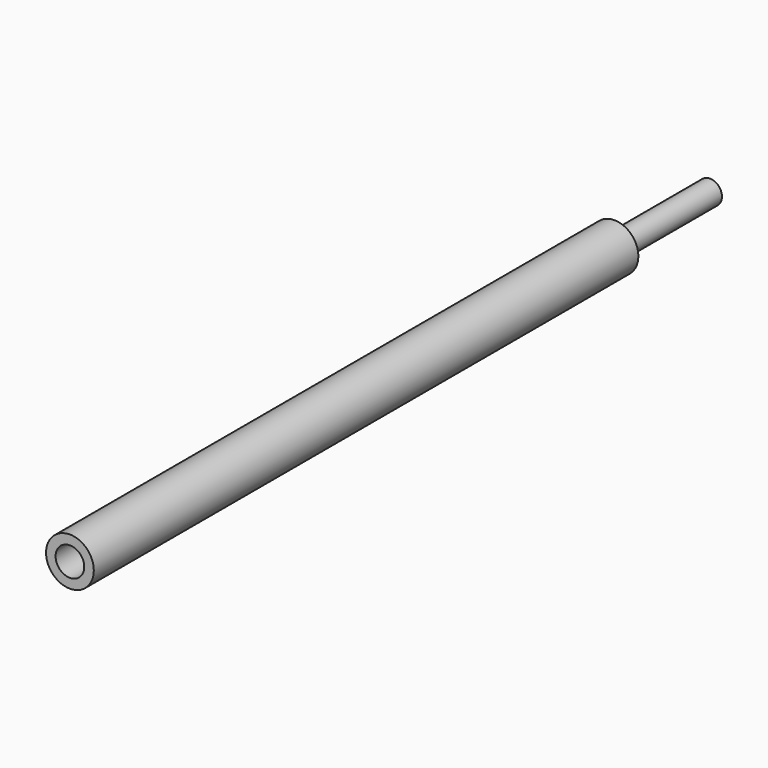
from build123d import *

# Parameters (mm, degrees)
F0_R     = 10
F1_DEPTH = 285
F2_R     = 6
F3_DEPTH = 25
F4_R     = 5
F5_DEPTH = 50


with BuildPart() as f1:
    # F0 (on Front) → F1 (new body)
    with BuildSketch(Plane.XZ):
        Circle(F0_R)
    extrude(amount=F1_DEPTH)

    # F2 (on face) → F3 (cut)
    with BuildSketch(Plane.XZ.offset(285)):
        Circle(F2_R)
    extrude(amount=-F3_DEPTH, mode=Mode.SUBTRACT)

    # F4 (on face) → F5 (join)
    with BuildSketch(Plane(origin=(0, 0, 0), x_dir=(-1, 0, 0), z_dir=(0, 1, 0))):
        Circle(F4_R)
    extrude(amount=F5_DEPTH)


solid = f1.part
